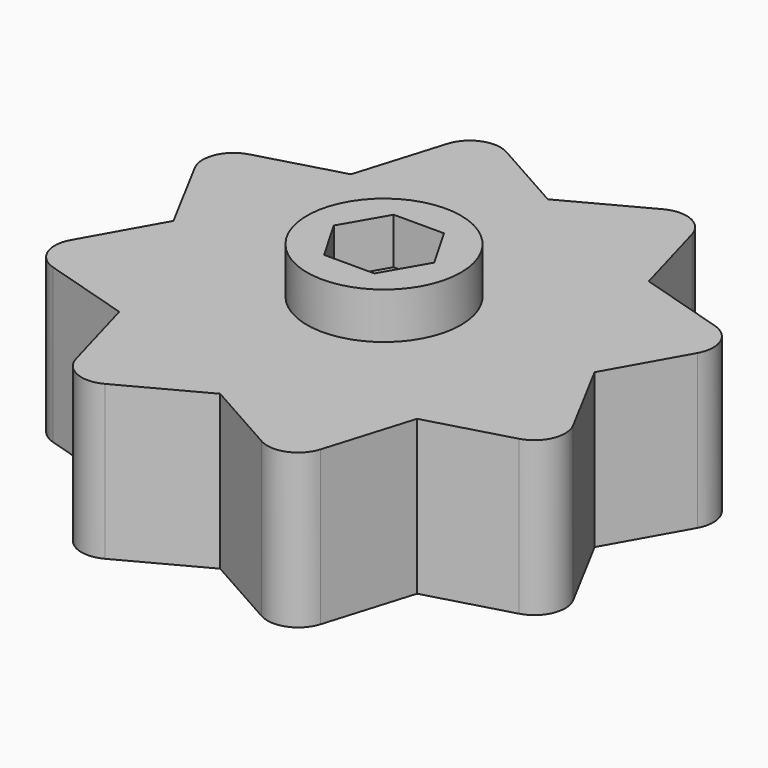
from build123d import *

# Parameters (mm, degrees)
F1_DEPTH = 10
F2_R     = 5
F3_DEPTH = 3
F4_R     = 1.75
F5_DEPTH = 10.001


with BuildPart() as f1:
    # F0 (on Top) → F1 (new body)
    with BuildSketch(Plane.XY):
        with BuildLine():
            Line((-7.971794, 15.117246), (-9.695514, 9.43691))
            Line((-9.695514, 9.43691), (-15.102408, 7.920959))
            ThreePointArc((-15.102408, 7.920959), (-16.401997, 6.78019), (-16.326416, 5.052598))
            Line((-16.326416, 5.052598), (-13.528667, -0.182861))
            Line((-13.528667, -0.182861), (-16.279979, -5.078052))
            ThreePointArc((-16.279979, -5.078052), (-16.392282, -6.803645), (-15.117246, -7.971794))
            Line((-15.117246, -7.971794), (-9.43691, -9.695514))
            Line((-9.43691, -9.695514), (-7.920959, -15.102408))
            ThreePointArc((-7.920959, -15.102408), (-6.78019, -16.401997), (-5.052598, -16.326416))
            Line((-5.052598, -16.326416), (0.182861, -13.528667))
            Line((0.182861, -13.528667), (5.078052, -16.279979))
            ThreePointArc((5.078052, -16.279979), (6.803645, -16.392282), (7.971794, -15.117246))
            Line((7.971794, -15.117246), (9.695514, -9.43691))
            Line((9.695514, -9.43691), (15.102408, -7.920959))
            ThreePointArc((15.102408, -7.920959), (16.401997, -6.78019), (16.326416, -5.052598))
            Line((16.326416, -5.052598), (13.528667, 0.182861))
            Line((13.528667, 0.182861), (16.279979, 5.078052))
            ThreePointArc((16.279979, 5.078052), (16.392282, 6.803645), (15.117246, 7.971794))
            Line((15.117246, 7.971794), (9.43691, 9.695514))
            Line((9.43691, 9.695514), (7.920959, 15.102408))
            ThreePointArc((7.920959, 15.102408), (6.78019, 16.401997), (5.052598, 16.326416))
            Line((5.052598, 16.326416), (-0.182861, 13.528667))
            Line((-0.182861, 13.528667), (-5.078052, 16.279979))
            ThreePointArc((-5.078052, 16.279979), (-6.803645, 16.392282), (-7.971794, 15.117246))
        make_face()
    extrude(amount=F1_DEPTH)

    # F2 (on face) → F3 (join)
    with BuildSketch(Plane.XY.offset(10)):
        Circle(F2_R)
        Polygon((-3.262029, 0), (-1.631015, 2.825), (1.631015, 2.825), (3.262029, 0), (1.631015, -2.825), (-1.631015, -2.825), align=None, mode=Mode.SUBTRACT)
    extrude(amount=F3_DEPTH)

    # F4 (on face) → F5 (cut, through all)
    with BuildSketch(Plane.XY.offset(10)):
        Circle(F4_R)
    extrude(amount=-F5_DEPTH, mode=Mode.SUBTRACT)


solid = f1.part
